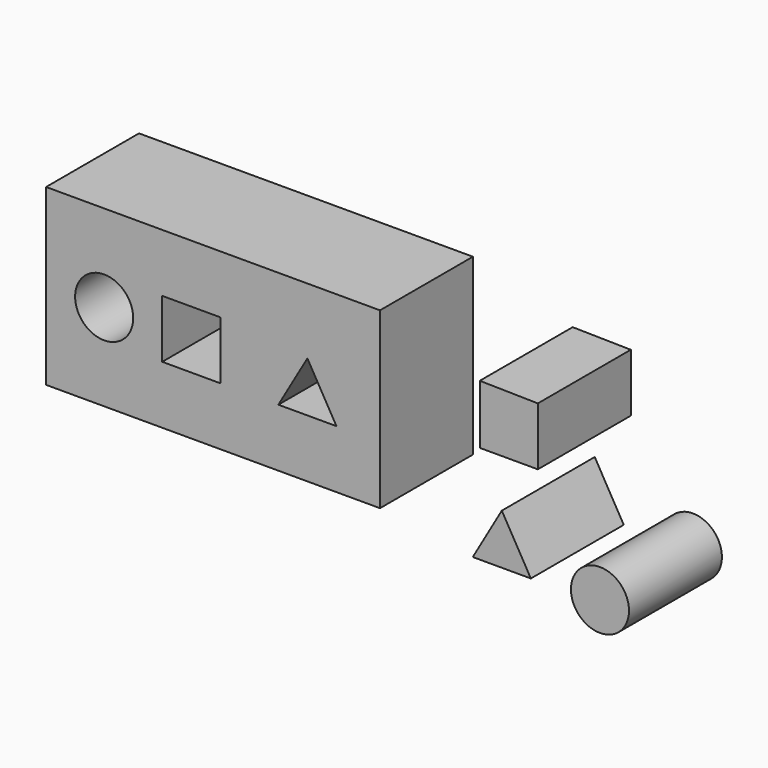
from build123d import *

# Parameters (mm, degrees)
F0_W     = 146.05
F0_H     = 76.2
F0_R     = 12.7
F0_W_2   = 25.4
F0_H_2   = 25.4
F1_DEPTH = 50.8


with BuildPart() as f1:
    # F0 (on Front) → F1 (new body)
    with BuildSketch(Plane.XZ):
        with Locations((-83.26926, 12.7)):
            Rectangle(F0_W, F0_H)
        with Locations((-130.89426, 12.7)):
            Circle(F0_R, mode=Mode.SUBTRACT)
        with Locations((-92.79426, 12.7)):
            Rectangle(F0_W_2, F0_H_2, mode=Mode.SUBTRACT)
        Polygon((-54.69426, 0), (-41.99426, 21.997045), (-29.29426, 0), align=None, mode=Mode.SUBTRACT)
        Polygon((58.795238, 37.420745), (33.395238, 37.864104), (33.395238, 12.020745), (58.795238, 12.020745), align=None)
        Polygon((55.734539, -31.001053), (43.034539, -9.004008), (30.334539, -31.001053), align=None)
        with Locations((85.966662, -29.447537)):
            Circle(F0_R)
    extrude(amount=F1_DEPTH)


solid = f1.part
